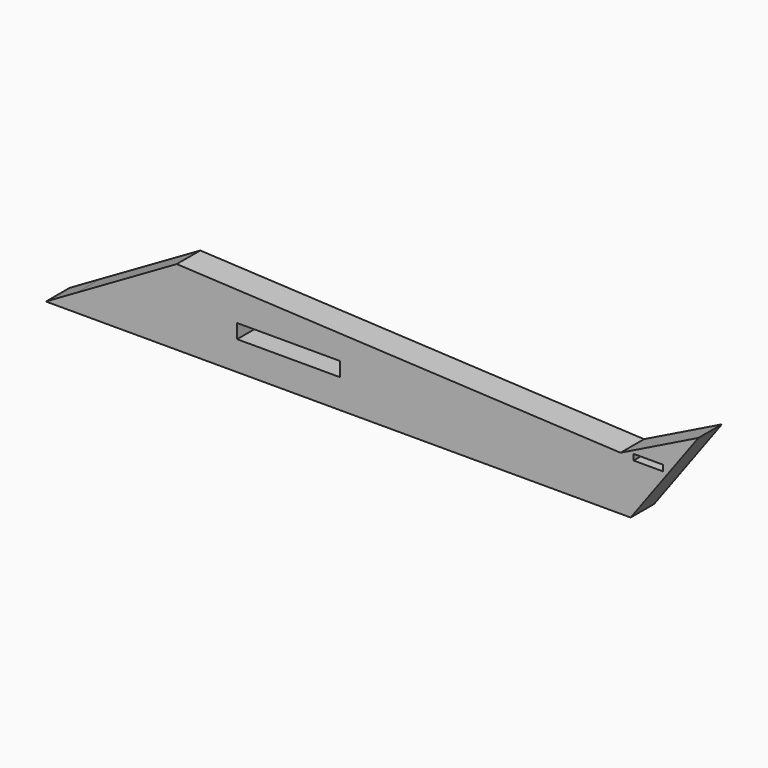
from build123d import *

# Parameters (mm, degrees)
F1_DEPTH  = 25.4
F2_DEPTH  = 25.4
F3_DEPTH  = 25.4
F5_DEPTH  = 25.4
F7_DEPTH  = 25.4
F9_DEPTH  = 25.4
F10_DEPTH = 25.4
F12_DEPTH = 25.4
F15_DEPTH = 25.4
F16_DEPTH = 25.4
F18_DEPTH = 25.4
F20_DEPTH = 25.4
F21_W     = 25.4
F21_H     = 5.08
F22_DEPTH = 25.4


with BuildPart() as f1:
    # F0 (on Front) → F1 (new body)
    with BuildSketch(Plane.XZ):
        with BuildLine():
            ThreePointArc((-248.9374864935, 45.4784197962), (-285.9761731261, 10.2133885569), (-248.9374864935, -25.0516426824))
            Line((-248.9374864935, -25.0516426824), (251.0625135065, -25.0516426824))
            Line((251.0625135065, -25.0516426824), (309.5429599858, 54.4976872176))
            Line((309.5429599858, 54.4976872176), (242.2861912184, 21.3638611095))
            Line((242.2861912184, 21.3638611095), (-248.9374864935, 45.4784197962))
        make_face()
    extrude(amount=F1_DEPTH)

    # F0 (on Front) → F2 (join)
    with BuildSketch(Plane.XZ):
        with BuildLine():
            ThreePointArc((-248.9374864935, 45.4784197962), (-285.9761731261, 10.2133885569), (-248.9374864935, -25.0516426824))
            Line((-248.9374864935, -25.0516426824), (251.0625135065, -25.0516426824))
            Line((251.0625135065, -25.0516426824), (309.5429599858, 54.4976872176))
            Line((309.5429599858, 54.4976872176), (242.2861912184, 21.3638611095))
            Line((242.2861912184, 21.3638611095), (-248.9374864935, 45.4784197962))
        make_face()
    extrude(amount=F2_DEPTH)

    # F0 (on Front) → F3 (join)
    with BuildSketch(Plane.XZ):
        with BuildLine():
            ThreePointArc((-248.9374864935, 45.4784197962), (-285.9761731261, 10.2133885569), (-248.9374864935, -25.0516426824))
            Line((-248.9374864935, -25.0516426824), (251.0625135065, -25.0516426824))
            Line((251.0625135065, -25.0516426824), (309.5429599858, 54.4976872176))
            Line((309.5429599858, 54.4976872176), (242.2861912184, 21.3638611095))
            Line((242.2861912184, 21.3638611095), (-248.9374864935, 45.4784197962))
        make_face()
    extrude(amount=F3_DEPTH)

    # F4 (on face) → F5 (cut)
    with BuildSketch(Plane.XZ.offset(25.4)):
        with BuildLine():
            ThreePointArc((-88.7798070908, 12.3247159645), (-95.8567415785, 6.1623579822), (-88.7798070908, 0))
            Line((-88.7798070908, 0), (0, 0))
            Line((0, 0), (-88.7798070908, 12.3247159645))
        make_face()
    extrude(amount=-F5_DEPTH, mode=Mode.SUBTRACT)

    # F6 (on face) → F7 (cut)
    with BuildSketch(Plane.XZ.offset(25.4)):
        Polygon((0, 0), (-88.7798070908, 12.3247159645), (-88.7798070908, 0), align=None)
        Polygon((0, 12.3247159645), (-88.7798070908, 12.3247159645), (0, 0), align=None)
    extrude(amount=-F7_DEPTH, mode=Mode.SUBTRACT)

    # F11 (on face) → F12 (join)
    with BuildSketch(Plane.XZ.offset(25.4)):
        with BuildLine():
            ThreePointArc((-88.7798070908, 12.3247159645), (-95.8567415785, 6.1623579822), (-88.7798070908, 0))
            Line((-88.7798070908, 0), (-88.7798070908, 12.3247159645))
        make_face()
        with BuildLine():
            Line((-110.1938635111, -10.0966589525), (-88.7798070908, -10.0966589525))
            Line((-88.7798070908, -10.0966589525), (-88.7798070908, 0))
            ThreePointArc((-88.7798070908, 0), (-95.8567415785, 6.1623579822), (-88.7798070908, 12.3247159645))
            Line((-88.7798070908, 12.3247159645), (-88.7798070908, 19.2268192768))
            Line((-88.7798070908, 19.2268192768), (-110.1938635111, 19.2268192768))
            Line((-110.1938635111, 19.2268192768), (-110.1938635111, -10.0966589525))
        make_face()
    extrude(amount=-F12_DEPTH)

    # F13 (on face) → F15 (join)
    with BuildSketch(Plane.XZ.offset(25.4)):
        with BuildLine():
            ThreePointArc((-248.9374864935, 45.4784197962), (-285.9761731261, 10.2133885569), (-248.9374864935, -25.0516426824))
            Line((-248.9374864935, -25.0516426824), (-130.9048912587, 39.6841063828))
            Line((-130.9048912587, 39.6841063828), (-248.9374864935, 45.4784197962))
        make_face()
    extrude(amount=F15_DEPTH)

    # F16 (cut): a face of the model
    f16_faces = [f1.faces().sort_by_distance(p)[0] for p in [
        (-227.9648580508, -50.8, 16.7633050422),
    ]]
    extrude(f16_faces, amount=-F16_DEPTH, mode=Mode.SUBTRACT)

    # F17 (on face) → F18 (cut)
    with BuildSketch(Plane.XZ.offset(25.4)):
        Polygon((-310.474216938, -22.743826732), (-255.3424239159, -25.8090943098), (-138.7038677931, 41.4615124464), (-278.6701321602, 55.0241321325), align=None)
    extrude(amount=-F18_DEPTH, mode=Mode.SUBTRACT)

    # F19 (on face) → F20 (cut)
    with BuildSketch(Plane.XZ.offset(25.4)):
        Polygon((-265.600413084, -31.8100675941), (-141.2684768438, 40.1715748012), (-274.7080028057, 68.8641965389), (-321.2986290455, 3.4738616087), align=None)
    extrude(amount=-F20_DEPTH, mode=Mode.SUBTRACT)

    # F21 (on face) → F22 (cut)
    with BuildSketch(Plane.XZ.offset(25.4)):
        with Locations((266.2754654884, 21.6490322659)):
            Rectangle(F21_W, F21_H)
    extrude(amount=-F22_DEPTH, mode=Mode.SUBTRACT)


with BuildPart() as f9:
    # F8 (on face) → F9 (new body)
    with BuildSketch(Plane.XZ.offset(25.4)):
        with BuildLine():
            Line((-88.7798070908, 0), (-88.7798070908, 12.3247159645))
            ThreePointArc((-88.7798070908, 12.3247159645), (-95.8567415785, 6.1623579822), (-88.7798070908, 0))
        make_face()
    extrude(amount=F9_DEPTH)

    # F10 (cut): a face of the model
    f10_faces = [f9.faces().sort_by_distance(p)[0] for p in [
        (-91.8199479987, -50.8, 6.1623579822),
    ]]
    extrude(f10_faces, amount=-F10_DEPTH, mode=Mode.SUBTRACT)


solid = f1.part
